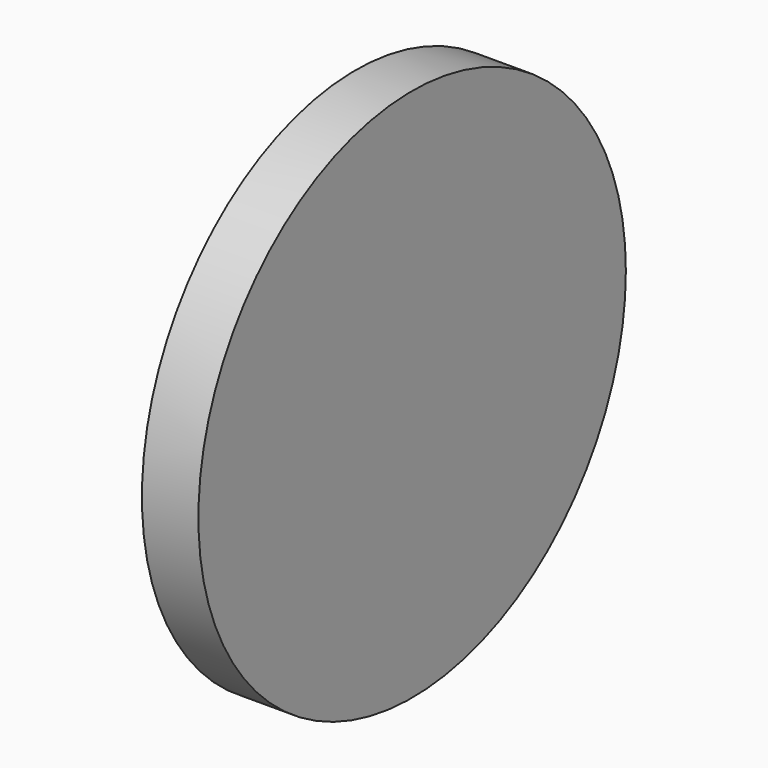
from build123d import *

# Parameters (mm, degrees)
F0_R     = 72.100685756
F1_DEPTH = 15.24
F2_R     = 72.100685756
F3_W     = 75.4410102963
F3_H     = 122.2938522696
F4_DEPTH = 3.81


with BuildPart() as f1:
    # F0 (on Right) → F1 (new body)
    with BuildSketch(Plane.YZ):
        Circle(F0_R)
    extrude(amount=F1_DEPTH)

    # F2 (on face) + F3 (on face) → F4 (join)
    with BuildSketch(Plane.YZ.offset(15.24)):
        Circle(F2_R)
        with BuildLine():
            add(Edge.make_bspline(
                [(0, -19.3283688277), (7.2915372713, -15.5039797305), (22.6063367366, -7.4714140422), (33.7992430244, 25.1491278531), (17.3668946049, 40.0781600056), (6.3201660368, 26.2507504275), (0, 18.3396730572)],
                knots=[0, 0, 0, 0, 0.26126356, 0.5487456047, 0.7418237729, 1, 1, 1, 1], degree=3))
            add(Edge.make_bspline(
                [(0, -19.3283688277), (-7.2915372713, -15.5039797305), (-22.6063367366, -7.4714140422), (-33.7992430244, 25.1491278531), (-17.3668946049, 40.0781600056), (-6.3201660368, 26.2507504275), (0, 18.3396730572)],
                knots=[0, 0, 0, 0, 0.26126356, 0.5487456047, 0.7418237729, 1, 1, 1, 1], degree=3))
        make_face(mode=Mode.SUBTRACT)
    with BuildSketch(Plane.YZ.offset(15.24)):
        Rectangle(F3_W, F3_H)
    extrude(amount=-F4_DEPTH)


solid = f1.part
